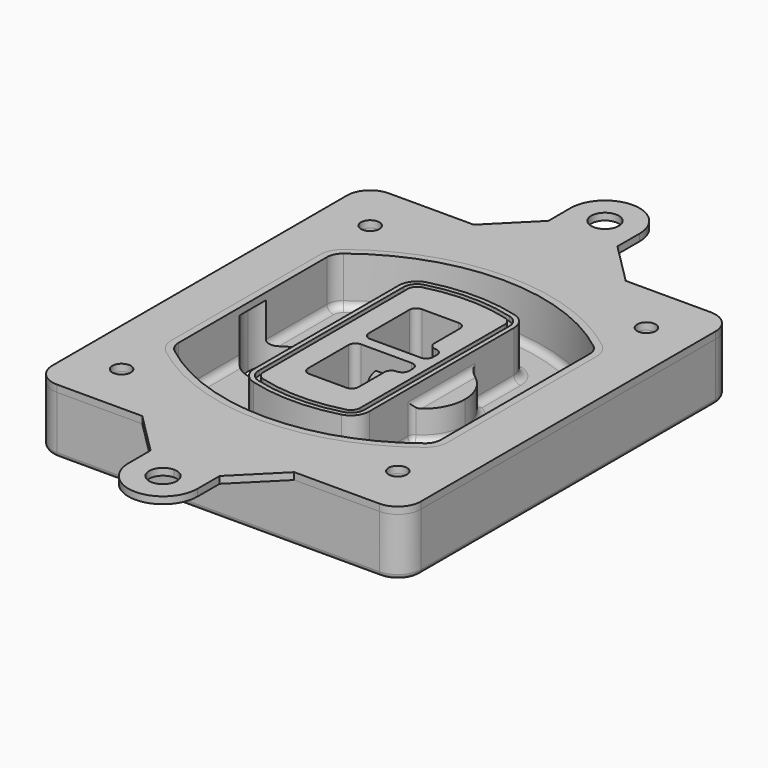
from build123d import *

# Parameters (mm, degrees)
F0_R      = 4
F1_DEPTH  = 25
F2_DEPTH  = 3
F3_DEPTH  = 18
F5_DEPTH  = 21
F6_DEPTH  = 2
F8_DEPTH  = 20
F9_DEPTH  = 16
F10_DEPTH = 25
F7_R      = 6
F7_R_2    = 4
F11_DEPTH = 6
F13_DEPTH = 9
F14_R     = 3
F15_R     = 2
F16_R     = 6
F16_R_2   = 4
F17_DEPTH = 3


with BuildPart() as f1:
    # F0 (on Top) → F1 (new body)
    with BuildSketch(Plane.XY):
        with BuildLine():
            ThreePointArc((14.05, 38.3825811321), (16.9789321881, 31.3115133202), (24.05, 28.3825811321))
            Line((24.05, 28.3825811321), (164.05, 28.3825811321))
            ThreePointArc((164.05, 28.3825811321), (171.1210678119, 31.3115133202), (174.05, 38.3825811321))
            Line((174.05, 38.3825811321), (174.05, 198.3825811321))
            ThreePointArc((174.05, 198.3825811321), (171.1210678119, 205.4536489439), (164.05, 208.3825811321))
            Line((164.05, 208.3825811321), (24.05, 208.3825811321))
            ThreePointArc((24.05, 208.3825811321), (16.9789321881, 205.4536489439), (14.05, 198.3825811321))
            Line((14.05, 198.3825811321), (14.05, 38.3825811321))
        make_face()
        with Locations((34.05, 50.8825811321)):
            Circle(F0_R, mode=Mode.SUBTRACT)
        with Locations((154.05, 50.8825811321)):
            Circle(F0_R, mode=Mode.SUBTRACT)
        with BuildLine():
            ThreePointArc((30.05, 158.6760234193), (31.4679615202, 164.8154295545), (35.4346153846, 169.7112011673))
            ThreePointArc((35.4346153846, 169.7112011673), (94.05, 189.8825811321), (152.6653846154, 169.7112011673))
            ThreePointArc((152.6653846154, 169.7112011673), (156.6320384798, 164.8154295545), (158.05, 158.6760234193))
            Line((158.05, 158.6760234193), (158.05, 78.0891388448))
            ThreePointArc((158.05, 78.0891388448), (156.6320384798, 71.9497327097), (152.6653846154, 67.0539610969))
            ThreePointArc((152.6653846154, 67.0539610969), (94.05, 46.8825811321), (35.4346153846, 67.0539610969))
            ThreePointArc((35.4346153846, 67.0539610969), (31.4679615202, 71.9497327097), (30.05, 78.0891388448))
            Line((30.05, 78.0891388448), (30.05, 158.6760234193))
        make_face(mode=Mode.SUBTRACT)
        with Locations((34.05, 185.8825811321)):
            Circle(F0_R, mode=Mode.SUBTRACT)
        with Locations((154.05, 185.8825811321)):
            Circle(F0_R, mode=Mode.SUBTRACT)
        with BuildLine():
            ThreePointArc((152.6653846154, 169.7112011673), (94.05, 189.8825811321), (35.4346153846, 169.7112011673))
            ThreePointArc((35.4346153846, 169.7112011673), (31.4679615202, 164.8154295545), (30.05, 158.6760234193))
            Line((30.05, 158.6760234193), (30.05, 78.0891388448))
            ThreePointArc((30.05, 78.0891388448), (31.4679615202, 71.9497327097), (35.4346153846, 67.0539610969))
            ThreePointArc((35.4346153846, 67.0539610969), (94.05, 46.8825811321), (152.6653846154, 67.0539610969))
            ThreePointArc((152.6653846154, 67.0539610969), (156.6320384798, 71.9497327097), (158.05, 78.0891388448))
            Line((158.05, 78.0891388448), (158.05, 158.6760234193))
            ThreePointArc((158.05, 158.6760234193), (156.6320384798, 164.8154295545), (152.6653846154, 169.7112011673))
        make_face()
        with BuildLine():
            Line((34.05, 78.0891388448), (34.05, 158.6760234193))
            ThreePointArc((34.05, 158.6760234193), (35.0628296573, 163.0613135158), (37.8961538462, 166.5582932393))
            ThreePointArc((37.8961538462, 166.5582932393), (94.05, 185.8825811321), (150.2038461538, 166.5582932393))
            ThreePointArc((150.2038461538, 166.5582932393), (153.0371703427, 163.0613135158), (154.05, 158.6760234193))
            Line((154.05, 158.6760234193), (154.05, 78.0891388448))
            ThreePointArc((154.05, 78.0891388448), (153.0371703427, 73.7038487483), (150.2038461538, 70.2068690248))
            ThreePointArc((150.2038461538, 70.2068690248), (94.05, 50.8825811321), (37.8961538462, 70.2068690248))
            ThreePointArc((37.8961538462, 70.2068690248), (35.0628296573, 73.7038487483), (34.05, 78.0891388448))
        make_face(mode=Mode.SUBTRACT)
        with BuildLine():
            ThreePointArc((37.8961538462, 166.5582932393), (35.0628296573, 163.0613135158), (34.05, 158.6760234193))
            Line((34.05, 158.6760234193), (34.05, 78.0891388448))
            ThreePointArc((34.05, 78.0891388448), (35.0628296573, 73.7038487483), (37.8961538462, 70.2068690248))
            ThreePointArc((37.8961538462, 70.2068690248), (94.05, 50.8825811321), (150.2038461538, 70.2068690248))
            ThreePointArc((150.2038461538, 70.2068690248), (153.0371703427, 73.7038487483), (154.05, 78.0891388448))
            Line((154.05, 78.0891388448), (154.05, 158.6760234193))
            ThreePointArc((154.05, 158.6760234193), (153.0371703427, 163.0613135158), (150.2038461538, 166.5582932393))
            ThreePointArc((150.2038461538, 166.5582932393), (94.05, 185.8825811321), (37.8961538462, 166.5582932393))
        make_face()
        with BuildLine():
            ThreePointArc((148.3576923077, 164.1936122933), (150.3410192399, 161.7457264869), (151.05, 158.6760234193))
            Line((151.05, 158.6760234193), (151.05, 78.0891388448))
            ThreePointArc((151.05, 78.0891388448), (150.3410192399, 75.0194357772), (148.3576923077, 72.5715499708))
            ThreePointArc((148.3576923077, 72.5715499708), (94.05, 53.8825811321), (39.7423076923, 72.5715499708))
            ThreePointArc((39.7423076923, 72.5715499708), (37.7589807601, 75.0194357772), (37.05, 78.0891388448))
            Line((37.05, 78.0891388448), (37.05, 158.6760234193))
            ThreePointArc((37.05, 158.6760234193), (37.7589807601, 161.7457264869), (39.7423076923, 164.1936122933))
            ThreePointArc((39.7423076923, 164.1936122933), (94.05, 182.8825811321), (148.3576923077, 164.1936122933))
        make_face(mode=Mode.SUBTRACT)
        with BuildLine():
            Line((151.05, 78.0891388448), (151.05, 158.6760234193))
            ThreePointArc((151.05, 158.6760234193), (150.3410192399, 161.7457264869), (148.3576923077, 164.1936122933))
            ThreePointArc((148.3576923077, 164.1936122933), (94.05, 182.8825811321), (39.7423076923, 164.1936122933))
            ThreePointArc((39.7423076923, 164.1936122933), (37.7589807601, 161.7457264869), (37.05, 158.6760234193))
            Line((37.05, 158.6760234193), (37.05, 78.0891388448))
            ThreePointArc((37.05, 78.0891388448), (37.7589807601, 75.0194357772), (39.7423076923, 72.5715499708))
            ThreePointArc((39.7423076923, 72.5715499708), (94.05, 53.8825811321), (148.3576923077, 72.5715499708))
            ThreePointArc((148.3576923077, 72.5715499708), (150.3410192399, 75.0194357772), (151.05, 78.0891388448))
        make_face()
    extrude(amount=-F1_DEPTH)

    # F0 (on Top) → F2 (join)
    with BuildSketch(Plane.XY):
        with BuildLine():
            ThreePointArc((37.8961538462, 166.5582932393), (35.0628296573, 163.0613135158), (34.05, 158.6760234193))
            Line((34.05, 158.6760234193), (34.05, 78.0891388448))
            ThreePointArc((34.05, 78.0891388448), (35.0628296573, 73.7038487483), (37.8961538462, 70.2068690248))
            ThreePointArc((37.8961538462, 70.2068690248), (94.05, 50.8825811321), (150.2038461538, 70.2068690248))
            ThreePointArc((150.2038461538, 70.2068690248), (153.0371703427, 73.7038487483), (154.05, 78.0891388448))
            Line((154.05, 78.0891388448), (154.05, 158.6760234193))
            ThreePointArc((154.05, 158.6760234193), (153.0371703427, 163.0613135158), (150.2038461538, 166.5582932393))
            ThreePointArc((150.2038461538, 166.5582932393), (94.05, 185.8825811321), (37.8961538462, 166.5582932393))
        make_face()
        with BuildLine():
            ThreePointArc((148.3576923077, 164.1936122933), (150.3410192399, 161.7457264869), (151.05, 158.6760234193))
            Line((151.05, 158.6760234193), (151.05, 78.0891388448))
            ThreePointArc((151.05, 78.0891388448), (150.3410192399, 75.0194357772), (148.3576923077, 72.5715499708))
            ThreePointArc((148.3576923077, 72.5715499708), (94.05, 53.8825811321), (39.7423076923, 72.5715499708))
            ThreePointArc((39.7423076923, 72.5715499708), (37.7589807601, 75.0194357772), (37.05, 78.0891388448))
            Line((37.05, 78.0891388448), (37.05, 158.6760234193))
            ThreePointArc((37.05, 158.6760234193), (37.7589807601, 161.7457264869), (39.7423076923, 164.1936122933))
            ThreePointArc((39.7423076923, 164.1936122933), (94.05, 182.8825811321), (148.3576923077, 164.1936122933))
        make_face(mode=Mode.SUBTRACT)
    extrude(amount=F2_DEPTH)

    # F0 (on Top) → F3 (cut)
    with BuildSketch(Plane.XY):
        with BuildLine():
            Line((151.05, 78.0891388448), (151.05, 158.6760234193))
            ThreePointArc((151.05, 158.6760234193), (150.3410192399, 161.7457264869), (148.3576923077, 164.1936122933))
            ThreePointArc((148.3576923077, 164.1936122933), (94.05, 182.8825811321), (39.7423076923, 164.1936122933))
            ThreePointArc((39.7423076923, 164.1936122933), (37.7589807601, 161.7457264869), (37.05, 158.6760234193))
            Line((37.05, 158.6760234193), (37.05, 78.0891388448))
            ThreePointArc((37.05, 78.0891388448), (37.7589807601, 75.0194357772), (39.7423076923, 72.5715499708))
            ThreePointArc((39.7423076923, 72.5715499708), (94.05, 53.8825811321), (148.3576923077, 72.5715499708))
            ThreePointArc((148.3576923077, 72.5715499708), (150.3410192399, 75.0194357772), (151.05, 78.0891388448))
        make_face()
    extrude(amount=-F3_DEPTH, mode=Mode.SUBTRACT)

    # F4 (on face) → F5 (join, through all)
    with BuildSketch(Plane.XY.offset(3)):
        with BuildLine():
            ThreePointArc((69.05, 79.13605345), (70.6988454002, 74.2716074128), (74.9657088123, 71.4123412437))
            ThreePointArc((74.9657088123, 71.4123412437), (94.05, 68.8825811321), (113.1342911877, 71.4123412437))
            ThreePointArc((113.1342911877, 71.4123412437), (117.4011545998, 74.2716074128), (119.05, 79.13605345))
            Line((119.05, 79.13605345), (119.05, 157.6291088141))
            ThreePointArc((119.05, 157.6291088141), (117.4011545998, 162.4935548514), (113.1342911877, 165.3528210204))
            ThreePointArc((113.1342911877, 165.3528210204), (94.05, 167.8825811321), (74.9657088123, 165.3528210204))
            ThreePointArc((74.9657088123, 165.3528210204), (70.6988454002, 162.4935548514), (69.05, 157.6291088141))
            Line((69.05, 157.6291088141), (69.05, 79.13605345))
        make_face()
        with BuildLine():
            ThreePointArc((112.6132183908, 163.4218929688), (115.8133659499, 161.2774433421), (117.05, 157.6291088141))
            Line((117.05, 157.6291088141), (117.05, 79.13605345))
            ThreePointArc((117.05, 79.13605345), (115.8133659499, 75.4877189221), (112.6132183908, 73.3432692953))
            ThreePointArc((112.6132183908, 73.3432692953), (94.05, 70.8825811321), (75.4867816092, 73.3432692953))
            ThreePointArc((75.4867816092, 73.3432692953), (72.2866340501, 75.4877189221), (71.05, 79.13605345))
            Line((71.05, 79.13605345), (71.05, 157.6291088141))
            ThreePointArc((71.05, 157.6291088141), (72.2866340501, 161.2774433421), (75.4867816092, 163.4218929688))
            ThreePointArc((75.4867816092, 163.4218929688), (94.05, 165.8825811321), (112.6132183908, 163.4218929688))
        make_face(mode=Mode.SUBTRACT)
        with BuildLine():
            Line((117.05, 79.13605345), (117.05, 157.6291088141))
            ThreePointArc((117.05, 157.6291088141), (115.8133659499, 161.2774433421), (112.6132183908, 163.4218929688))
            ThreePointArc((112.6132183908, 163.4218929688), (94.05, 165.8825811321), (75.4867816092, 163.4218929688))
            ThreePointArc((75.4867816092, 163.4218929688), (72.2866340501, 161.2774433421), (71.05, 157.6291088141))
            Line((71.05, 157.6291088141), (71.05, 79.13605345))
            ThreePointArc((71.05, 79.13605345), (72.2866340501, 75.4877189221), (75.4867816092, 73.3432692953))
            ThreePointArc((75.4867816092, 73.3432692953), (94.05, 70.8825811321), (112.6132183908, 73.3432692953))
            ThreePointArc((112.6132183908, 73.3432692953), (115.8133659499, 75.4877189221), (117.05, 79.13605345))
        make_face()
        with BuildLine():
            ThreePointArc((112.0921455939, 161.4909649173), (114.2255772999, 160.0613318328), (115.05, 157.6291088141))
            Line((115.05, 157.6291088141), (115.05, 79.13605345))
            ThreePointArc((115.05, 79.13605345), (114.2255772999, 76.7038304314), (112.0921455939, 75.2741973469))
            ThreePointArc((112.0921455939, 75.2741973469), (94.05, 72.8825811321), (76.0078544061, 75.2741973469))
            ThreePointArc((76.0078544061, 75.2741973469), (73.8744227001, 76.7038304314), (73.05, 79.13605345))
            Line((73.05, 79.13605345), (73.05, 157.6291088141))
            ThreePointArc((73.05, 157.6291088141), (73.8744227001, 160.0613318328), (76.0078544061, 161.4909649173))
            ThreePointArc((76.0078544061, 161.4909649173), (94.05, 163.8825811321), (112.0921455939, 161.4909649173))
        make_face(mode=Mode.SUBTRACT)
        with BuildLine():
            Line((115.05, 79.13605345), (115.05, 157.6291088141))
            ThreePointArc((115.05, 157.6291088141), (114.2255772999, 160.0613318328), (112.0921455939, 161.4909649173))
            ThreePointArc((112.0921455939, 161.4909649173), (94.05, 163.8825811321), (76.0078544061, 161.4909649173))
            ThreePointArc((76.0078544061, 161.4909649173), (73.8744227001, 160.0613318328), (73.05, 157.6291088141))
            Line((73.05, 157.6291088141), (73.05, 79.13605345))
            ThreePointArc((73.05, 79.13605345), (73.8744227001, 76.7038304314), (76.0078544061, 75.2741973469))
            ThreePointArc((76.0078544061, 75.2741973469), (94.05, 72.8825811321), (112.0921455939, 75.2741973469))
            ThreePointArc((112.0921455939, 75.2741973469), (114.2255772999, 76.7038304314), (115.05, 79.13605345))
        make_face()
        with BuildLine():
            Line((86.05, 115.8825811321), (108.05, 115.8825811321))
            ThreePointArc((108.05, 115.8825811321), (110.1713203436, 115.0039014756), (111.05, 112.8825811321))
            Line((111.05, 112.8825811321), (111.05, 110.8825811321))
            ThreePointArc((111.05, 110.8825811321), (110.1713203436, 108.7612607885), (108.05, 107.8825811321))
            ThreePointArc((108.05, 107.8825811321), (105.9286796564, 107.0039014756), (105.05, 104.8825811321))
            Line((105.05, 104.8825811321), (105.05, 90.8825811321))
            ThreePointArc((105.05, 90.8825811321), (104.1713203436, 88.7612607885), (102.05, 87.8825811321))
            Line((102.05, 87.8825811321), (86.05, 87.8825811321))
            ThreePointArc((86.05, 87.8825811321), (83.9286796564, 88.7612607885), (83.05, 90.8825811321))
            Line((83.05, 90.8825811321), (83.05, 112.8825811321))
            ThreePointArc((83.05, 112.8825811321), (83.9286796564, 115.0039014756), (86.05, 115.8825811321))
        make_face(mode=Mode.SUBTRACT)
        with BuildLine():
            ThreePointArc((86.05, 120.8825811321), (83.9286796564, 121.7612607885), (83.05, 123.8825811321))
            Line((83.05, 123.8825811321), (83.05, 145.8825811321))
            ThreePointArc((83.05, 145.8825811321), (83.9286796564, 148.0039014756), (86.05, 148.8825811321))
            Line((86.05, 148.8825811321), (102.05, 148.8825811321))
            ThreePointArc((102.05, 148.8825811321), (104.1713203436, 148.0039014756), (105.05, 145.8825811321))
            Line((105.05, 145.8825811321), (105.05, 131.8825811321))
            ThreePointArc((105.05, 131.8825811321), (105.9286796564, 129.7612607885), (108.05, 128.8825811321))
            ThreePointArc((108.05, 128.8825811321), (110.1713203436, 128.0039014756), (111.05, 125.8825811321))
            Line((111.05, 125.8825811321), (111.05, 123.8825811321))
            ThreePointArc((111.05, 123.8825811321), (110.1713203436, 121.7612607885), (108.05, 120.8825811321))
            Line((108.05, 120.8825811321), (86.05, 120.8825811321))
        make_face(mode=Mode.SUBTRACT)
    extrude(amount=-F5_DEPTH)

    # F4 (on face) → F6 (cut)
    with BuildSketch(Plane.XY.offset(3)):
        with BuildLine():
            Line((117.05, 79.13605345), (117.05, 157.6291088141))
            ThreePointArc((117.05, 157.6291088141), (115.8133659499, 161.2774433421), (112.6132183908, 163.4218929688))
            ThreePointArc((112.6132183908, 163.4218929688), (94.05, 165.8825811321), (75.4867816092, 163.4218929688))
            ThreePointArc((75.4867816092, 163.4218929688), (72.2866340501, 161.2774433421), (71.05, 157.6291088141))
            Line((71.05, 157.6291088141), (71.05, 79.13605345))
            ThreePointArc((71.05, 79.13605345), (72.2866340501, 75.4877189221), (75.4867816092, 73.3432692953))
            ThreePointArc((75.4867816092, 73.3432692953), (94.05, 70.8825811321), (112.6132183908, 73.3432692953))
            ThreePointArc((112.6132183908, 73.3432692953), (115.8133659499, 75.4877189221), (117.05, 79.13605345))
        make_face()
        with BuildLine():
            ThreePointArc((112.0921455939, 161.4909649173), (114.2255772999, 160.0613318328), (115.05, 157.6291088141))
            Line((115.05, 157.6291088141), (115.05, 79.13605345))
            ThreePointArc((115.05, 79.13605345), (114.2255772999, 76.7038304314), (112.0921455939, 75.2741973469))
            ThreePointArc((112.0921455939, 75.2741973469), (94.05, 72.8825811321), (76.0078544061, 75.2741973469))
            ThreePointArc((76.0078544061, 75.2741973469), (73.8744227001, 76.7038304314), (73.05, 79.13605345))
            Line((73.05, 79.13605345), (73.05, 157.6291088141))
            ThreePointArc((73.05, 157.6291088141), (73.8744227001, 160.0613318328), (76.0078544061, 161.4909649173))
            ThreePointArc((76.0078544061, 161.4909649173), (94.05, 163.8825811321), (112.0921455939, 161.4909649173))
        make_face(mode=Mode.SUBTRACT)
    extrude(amount=-F6_DEPTH, mode=Mode.SUBTRACT)

    # F7 (on face) → F8 (join)
    with BuildSketch(Plane(origin=(0, 0, -25), x_dir=(1, 0, 0), z_dir=(0, 0, -1))):
        with BuildLine():
            ThreePointArc((97.33842436, -118.3825811321), (110.8067035675, -104.9143019245), (124.274982775, -118.3825811321))
            Line((124.274982775, -118.3825811321), (129.274982775, -118.3825811321))
            ThreePointArc((129.274982775, -118.3825811321), (110.8067035675, -99.9143019245), (92.33842436, -118.3825811321))
            Line((92.33842436, -118.3825811321), (97.33842436, -118.3825811321))
        make_face()
        with BuildLine():
            Line((97.33842436, -118.3825811321), (124.274982775, -118.3825811321))
            ThreePointArc((124.274982775, -118.3825811321), (110.8067035675, -104.9143019245), (97.33842436, -118.3825811321))
        make_face()
        with BuildLine():
            ThreePointArc((97.33842436, -118.3825811321), (110.8067035675, -131.8508603396), (124.274982775, -118.3825811321))
            Line((124.274982775, -118.3825811321), (97.33842436, -118.3825811321))
        make_face()
        with BuildLine():
            Line((129.274982775, -118.3825811321), (124.274982775, -118.3825811321))
            ThreePointArc((124.274982775, -118.3825811321), (110.8067035675, -131.8508603396), (97.33842436, -118.3825811321))
            Line((97.33842436, -118.3825811321), (92.33842436, -118.3825811321))
            ThreePointArc((92.33842436, -118.3825811321), (110.8067035675, -136.8508603396), (129.274982775, -118.3825811321))
        make_face()
    extrude(amount=-F8_DEPTH)

    # F7 (on face) → F9 (cut)
    with BuildSketch(Plane(origin=(0, 0, -25), x_dir=(1, 0, 0), z_dir=(0, 0, -1))):
        with BuildLine():
            Line((97.33842436, -118.3825811321), (124.274982775, -118.3825811321))
            ThreePointArc((124.274982775, -118.3825811321), (110.8067035675, -104.9143019245), (97.33842436, -118.3825811321))
        make_face()
        with BuildLine():
            ThreePointArc((97.33842436, -118.3825811321), (110.8067035675, -131.8508603396), (124.274982775, -118.3825811321))
            Line((124.274982775, -118.3825811321), (97.33842436, -118.3825811321))
        make_face()
    extrude(amount=-F9_DEPTH, mode=Mode.SUBTRACT)

    # F7 (on face) → F10 (cut)
    with BuildSketch(Plane(origin=(0, 0, -25), x_dir=(1, 0, 0), z_dir=(0, 0, -1))):
        with BuildLine():
            Line((35.0181770675, -118.3825811321), (61.9547354825, -118.3825811321))
            ThreePointArc((61.9547354825, -118.3825811321), (48.486456275, -104.9143019245), (35.0181770675, -118.3825811321))
        make_face()
        with BuildLine():
            ThreePointArc((35.0181770675, -118.3825811321), (48.486456275, -131.8508603396), (61.9547354825, -118.3825811321))
            Line((61.9547354825, -118.3825811321), (35.0181770675, -118.3825811321))
        make_face()
    extrude(amount=-F10_DEPTH, mode=Mode.SUBTRACT)

    # F7 (on face) → F11 (cut)
    with BuildSketch(Plane(origin=(0, 0, -25), x_dir=(1, 0, 0), z_dir=(0, 0, -1))):
        with Locations((154.05, -185.8825811321)):
            Circle(F7_R)
        with Locations((154.05, -185.8825811321)):
            Circle(F7_R_2, mode=Mode.SUBTRACT)
        with Locations((154.05, -185.8825811321)):
            Circle(F7_R)
        with Locations((154.05, -185.8825811321)):
            Circle(F7_R_2, mode=Mode.SUBTRACT)
        with Locations((34.05, -185.8825811321)):
            Circle(F7_R)
        with Locations((34.05, -185.8825811321)):
            Circle(F7_R_2, mode=Mode.SUBTRACT)
        with Locations((34.05, -185.8825811321)):
            Circle(F7_R)
        with Locations((34.05, -185.8825811321)):
            Circle(F7_R_2, mode=Mode.SUBTRACT)
        with Locations((34.05, -50.8825811321)):
            Circle(F7_R)
        with Locations((34.05, -50.8825811321)):
            Circle(F7_R_2, mode=Mode.SUBTRACT)
        with Locations((34.05, -50.8825811321)):
            Circle(F7_R)
        with Locations((34.05, -50.8825811321)):
            Circle(F7_R_2, mode=Mode.SUBTRACT)
        with Locations((154.05, -50.8825811321)):
            Circle(F7_R)
        with Locations((154.05, -50.8825811321)):
            Circle(F7_R_2, mode=Mode.SUBTRACT)
        with Locations((154.05, -50.8825811321)):
            Circle(F7_R)
        with Locations((154.05, -50.8825811321)):
            Circle(F7_R_2, mode=Mode.SUBTRACT)
    extrude(amount=-F11_DEPTH, mode=Mode.SUBTRACT)

    # F12 (on face) → F13 (cut, through all)
    with BuildSketch(Plane(origin=(0, 0, -9), x_dir=(1, 0, 0), z_dir=(0, 0, -1))):
        with BuildLine():
            Line((105.05, -104.8825811321), (105.05, -100.8344273567))
            ThreePointArc((105.05, -100.8344273567), (96.6196536419, -106.5586667507), (92.5084157545, -115.8825811321))
            Line((92.5084157545, -115.8825811321), (97.5724848595, -115.8825811321))
            ThreePointArc((97.5724848595, -115.8825811321), (100.2357188154, -110.0369939039), (105.3036447004, -106.0898642673))
            ThreePointArc((105.3036447004, -106.0898642673), (105.1140958889, -105.4994012441), (105.05, -104.8825811321))
        make_face()
        with BuildLine():
            ThreePointArc((105.3036447004, -130.6752979968), (100.2357188154, -126.7281683602), (97.5724848595, -120.8825811321))
            Line((97.5724848595, -120.8825811321), (92.5084157545, -120.8825811321))
            ThreePointArc((92.5084157545, -120.8825811321), (96.6196536419, -130.2064955134), (105.05, -135.9307349074))
            Line((105.05, -135.9307349074), (105.05, -131.8825811321))
            ThreePointArc((105.05, -131.8825811321), (105.1140958889, -131.26576102), (105.3036447004, -130.6752979968))
        make_face()
        with BuildLine():
            ThreePointArc((105.3036447004, -106.0898642673), (100.2357188154, -110.0369939039), (97.5724848595, -115.8825811321))
            Line((97.5724848595, -115.8825811321), (108.05, -115.8825811321))
            ThreePointArc((108.05, -115.8825811321), (110.1713203436, -115.0039014756), (111.05, -112.8825811321))
            Line((111.05, -112.8825811321), (111.05, -110.8825811321))
            ThreePointArc((111.05, -110.8825811321), (110.1713203436, -108.7612607885), (108.05, -107.8825811321))
            ThreePointArc((108.05, -107.8825811321), (106.4101599782, -107.3947365219), (105.3036447004, -106.0898642673))
        make_face()
        with BuildLine():
            Line((108.05, -120.8825811321), (97.5724848595, -120.8825811321))
            ThreePointArc((97.5724848595, -120.8825811321), (100.2357188154, -126.7281683602), (105.3036447004, -130.6752979968))
            ThreePointArc((105.3036447004, -130.6752979968), (106.4101599782, -129.3704257422), (108.05, -128.8825811321))
            ThreePointArc((108.05, -128.8825811321), (110.1713203436, -128.0039014756), (111.05, -125.8825811321))
            Line((111.05, -125.8825811321), (111.05, -123.8825811321))
            ThreePointArc((111.05, -123.8825811321), (110.1713203436, -121.7612607885), (108.05, -120.8825811321))
        make_face()
    extrude(amount=F13_DEPTH, mode=Mode.SUBTRACT)

    # F14
    f14_edges = [f1.edges().sort_by_distance(p)[0] for p in [
        (37.05, 94.679105, -18),
        (37.05, 142.086057, -18),
        (119.05, 118.382581, -5),
        (119.05, 134.909087, -11.5),
        (119.05, 101.856075, -11.5),
        (119.05, 90.496064, -18),
        (129.274983, 118.382581, -18),
    ]]
    fillet(f14_edges, radius=F14_R)

    # F15
    f15_edges = [f1.edges().sort_by_distance(p)[0] for p in [
        (94.05, 28.382581, -25),
    ]]
    fillet(f15_edges, radius=F15_R)


with BuildPart() as f17:
    # F16 (on face) → F17 (new body, through all)
    with BuildSketch(Plane.XY):
        with BuildLine():
            Line((79.05, 226.3825811321), (61.05, 208.3825811321))
            Line((61.05, 208.3825811321), (127.05, 208.3825811321))
            Line((127.05, 208.3825811321), (109.05, 226.3825811321))
            Line((109.05, 226.3825811321), (109.05, 238.3825811321))
            ThreePointArc((109.05, 238.3825811321), (94.05, 253.3825811321), (79.05, 238.3825811321))
            Line((79.05, 238.3825811321), (79.05, 226.3825811321))
        make_face()
        with Locations((94.05, 238.3825811321)):
            Circle(F16_R, mode=Mode.SUBTRACT)
        with BuildLine():
            Line((94.05, 28.3825811321), (61.05, 28.3825811321))
            Line((61.05, 28.3825811321), (79.05, 10.3825811321))
            Line((79.05, 10.3825811321), (79.05, -1.6174188679))
            ThreePointArc((79.05, -1.6174188679), (94.05, -16.6174188679), (109.05, -1.6174188679))
            Line((109.05, -1.6174188679), (109.05, 10.3825811321))
            Line((109.05, 10.3825811321), (127.05, 28.3825811321))
            Line((127.05, 28.3825811321), (94.05, 28.3825811321))
        make_face()
        with BuildLine():
            ThreePointArc((100.05, -1.6174188679), (89.8073593129, -5.8600595551), (94.05, 4.3825811321))
            ThreePointArc((94.05, 4.3825811321), (98.2926406871, 2.6252218192), (100.05, -1.6174188679))
        make_face(mode=Mode.SUBTRACT)
        with BuildLine():
            Line((61.05, 208.3825811321), (24.05, 208.3825811321))
            ThreePointArc((24.05, 208.3825811321), (16.9789321881, 205.4536489439), (14.05, 198.3825811321))
            Line((14.05, 198.3825811321), (14.05, 38.3825811321))
            ThreePointArc((14.05, 38.3825811321), (16.9789321881, 31.3115133202), (24.05, 28.3825811321))
            Line((24.05, 28.3825811321), (61.05, 28.3825811321))
            Line((61.05, 28.3825811321), (94.05, 28.3825811321))
            Line((94.05, 28.3825811321), (127.05, 28.3825811321))
            Line((127.05, 28.3825811321), (164.05, 28.3825811321))
            ThreePointArc((164.05, 28.3825811321), (171.1210678119, 31.3115133202), (174.05, 38.3825811321))
            Line((174.05, 38.3825811321), (174.05, 198.3825811321))
            ThreePointArc((174.05, 198.3825811321), (171.1210678119, 205.4536489439), (164.05, 208.3825811321))
            Line((164.05, 208.3825811321), (127.05, 208.3825811321))
            Line((127.05, 208.3825811321), (61.05, 208.3825811321))
        make_face()
        with Locations((34.05, 50.8825811321)):
            Circle(F16_R_2, mode=Mode.SUBTRACT)
        with Locations((154.05, 50.8825811321)):
            Circle(F16_R_2, mode=Mode.SUBTRACT)
        with Locations((34.05, 185.8825811321)):
            Circle(F16_R_2, mode=Mode.SUBTRACT)
        with BuildLine():
            ThreePointArc((34.05, 158.6760234193), (35.0628296573, 163.0613135158), (37.8961538462, 166.5582932393))
            ThreePointArc((37.8961538462, 166.5582932393), (94.05, 185.8825811321), (150.2038461538, 166.5582932393))
            ThreePointArc((150.2038461538, 166.5582932393), (153.0371703427, 163.0613135158), (154.05, 158.6760234193))
            Line((154.05, 158.6760234193), (154.05, 78.0891388448))
            ThreePointArc((154.05, 78.0891388448), (153.0371703427, 73.7038487483), (150.2038461538, 70.2068690248))
            ThreePointArc((150.2038461538, 70.2068690248), (94.05, 50.8825811321), (37.8961538462, 70.2068690248))
            ThreePointArc((37.8961538462, 70.2068690248), (35.0628296573, 73.7038487483), (34.05, 78.0891388448))
            Line((34.05, 78.0891388448), (34.05, 158.6760234193))
        make_face(mode=Mode.SUBTRACT)
        with Locations((154.05, 185.8825811321)):
            Circle(F16_R_2, mode=Mode.SUBTRACT)
    extrude(amount=F17_DEPTH)


solid = Compound([f1.part, f17.part])
